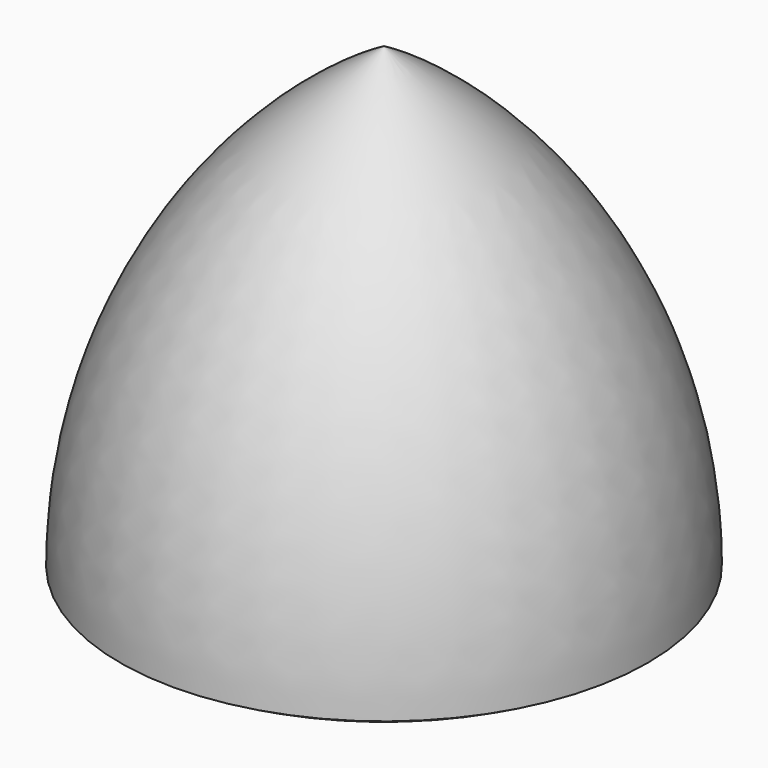
from build123d import *


with BuildPart() as f1:
    # F0 (on Front) → F1 (revolve)
    with BuildSketch(Plane.XZ):
        with BuildLine():
            Line((0, -6.69873), (0, 43.30127))
            ThreePointArc((0, 43.30127), (-18.30127, 25), (-25, 0))
            ThreePointArc((-25, 0), (-12.940952, -4.995021), (0, -6.69873))
        make_face()
    revolve(axis=Axis((0, 0, 18.30127), (0, 0, -1)))


solid = f1.part
